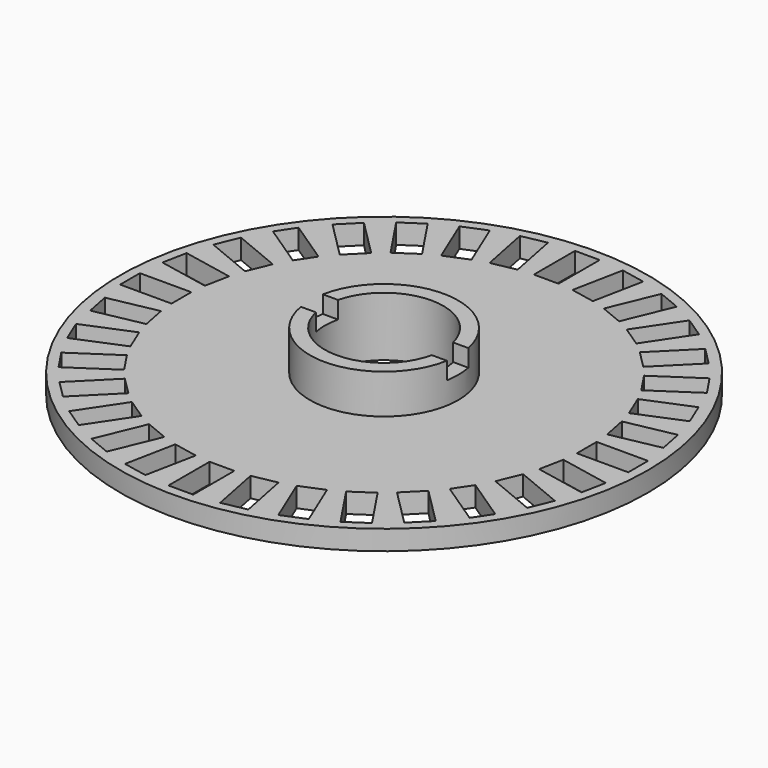
from build123d import *

# Parameters (mm, degrees)
SKETCH_R        = 26.7
PAD_DEPTH       = 2
SKETCH001_W     = 5.2
SKETCH001_H     = 2.5
SKETCH001_W_2   = 2.5
SKETCH001_H_2   = 5.2
POCKET_DEPTH    = 2.001
SKETCH002_R     = 7.5
PAD001_DEPTH    = 4
SKETCH003_R     = 6
POCKET001_DEPTH = 6.001
SKETCH004_W     = 18.225545
SKETCH004_H     = 2.75
POCKET002_DEPTH = 1.75


with BuildPart() as part:
    # Sketch → Pad (new body)
    with BuildSketch(Plane.XY):
        Circle(SKETCH_R)
    extrude(amount=PAD_DEPTH)

    # Sketch001 → Pocket (cut, through all)
    with BuildSketch(Plane.XY.offset(2)):
        with Locations((-23.1, 0)):
            Rectangle(SKETCH001_W, SKETCH001_H)
        with Locations((23.1, 0)):
            Rectangle(SKETCH001_W, SKETCH001_H)
        with Locations((0, 23.1)):
            Rectangle(SKETCH001_W_2, SKETCH001_H_2)
        with Locations((0, -23.1)):
            Rectangle(SKETCH001_W_2, SKETCH001_H_2)
        Polygon((-19.029555, 17.261788), (-17.261788, 19.029555), (-13.584833, 15.3526), (-15.3526, 13.584833), align=None)
        Polygon((17.261788, 19.029555), (19.029555, 17.261788), (15.3526, 13.584833), (13.584833, 15.3526), align=None)
        Polygon((17.261788, -19.029555), (19.029555, -17.261788), (15.3526, -13.584833), (13.584833, -15.3526), align=None)
        Polygon((-17.261788, -19.029555), (-19.029555, -17.261788), (-15.3526, -13.584833), (-13.584833, -15.3526), align=None)
        Polygon((8.680115, 24.222058), (6.690161, 19.417885), (8.99986, 18.461176), (10.989814, 23.26535), align=None)
        Polygon((18.461176, 8.99986), (19.417885, 6.690161), (24.037282, 8.603578), (23.080574, 10.913277), align=None)
        Polygon((-23.26535, 10.989814), (-24.222058, 8.680115), (-19.417885, 6.690161), (-18.461176, 8.99986), align=None)
        Polygon((-24.222058, -8.680115), (-23.26535, -10.989814), (-18.461176, -8.99986), (-19.417885, -6.690161), align=None)
        Polygon((-10.989814, -23.26535), (-8.680115, -24.222058), (-6.690161, -19.417885), (-8.99986, -18.461176), align=None)
        Polygon((6.690161, -19.417885), (8.680115, -24.222058), (10.989814, -23.26535), (8.99986, -18.461176), align=None)
        Polygon((19.417885, -6.690161), (18.461176, -8.99986), (23.26535, -10.989814), (24.222058, -8.680115), align=None)
        Polygon((-10.989814, 23.26535), (-8.680115, 24.222058), (-6.690161, 19.417885), (-8.99986, 18.461176), align=None)
        Polygon((19.862235, 5.225333), (20.349961, 2.77337), (25.253888, 3.748822), (24.766162, 6.200785), align=None)
        Polygon((-25.253888, -3.748822), (-24.766162, -6.200785), (-19.862235, -5.225333), (-20.349961, -2.77337), align=None)
        Polygon((-24.962319, 6.239803), (-25.450045, 3.78784), (-20.349961, 2.77337), (-19.862235, 5.225333), align=None)
        Polygon((-20.778522, 15.161523), (-21.959016, 13.394787), (-17.635375, 10.505822), (-16.45488, 12.272558), align=None)
        Polygon((-15.317492, 20.674306), (-13.238818, 22.063232), (-10.349853, 17.73959), (-12.428527, 16.350664), align=None)
        Polygon((-6.241651, 24.971611), (-3.789688, 25.459337), (-2.775218, 20.359254), (-5.227182, 19.871528), align=None)
        Polygon((3.78784, 25.450045), (2.77337, 20.349961), (5.225333, 19.862235), (6.239803, 24.962319), align=None)
        Polygon((13.238818, 22.063232), (10.349853, 17.73959), (12.428527, 16.350664), (15.317492, 20.674306), align=None)
        Polygon((16.350664, 12.428527), (17.73959, 10.349853), (22.063232, 13.238818), (20.674306, 15.317492), align=None)
        Polygon((20.349961, -2.77337), (19.862235, -5.225333), (24.962319, -6.239803), (25.450045, -3.78784), align=None)
        Polygon((17.635375, -10.505822), (16.45488, -12.272558), (20.778522, -15.161523), (21.959016, -13.394787), align=None)
        Polygon((10.349853, -17.73959), (12.428527, -16.350664), (15.317492, -20.674306), (13.238818, -22.063232), align=None)
        Polygon((2.775218, -20.359254), (5.227182, -19.871528), (6.241651, -24.971611), (3.789688, -25.459337), align=None)
        Polygon((-2.77337, -20.349961), (-3.78784, -25.450045), (-6.239803, -24.962319), (-5.225333, -19.862235), align=None)
        Polygon((-15.317492, -20.674306), (-13.238818, -22.063232), (-10.349853, -17.73959), (-12.428527, -16.350664), align=None)
        Polygon((-22.063232, -13.238818), (-20.674306, -15.317492), (-16.350664, -12.428527), (-17.73959, -10.349853), align=None)
    extrude(amount=-POCKET_DEPTH, mode=Mode.SUBTRACT)

    # Sketch002 → Pad001 (new body)
    with BuildSketch(Plane.XY.offset(2)):
        Circle(SKETCH002_R)
    extrude(amount=PAD001_DEPTH)

    # Sketch003 → Pocket001 (cut, through all)
    with BuildSketch(Plane.XY.offset(6)):
        Circle(SKETCH003_R)
    extrude(amount=-POCKET001_DEPTH, mode=Mode.SUBTRACT)

    # Sketch004 → Pocket002 (cut)
    with BuildSketch(Plane.XY.offset(6)):
        with Locations((0.188303, 0.078437)):
            Rectangle(SKETCH004_W, SKETCH004_H)
    extrude(amount=-POCKET002_DEPTH, mode=Mode.SUBTRACT)


solid = part.part
